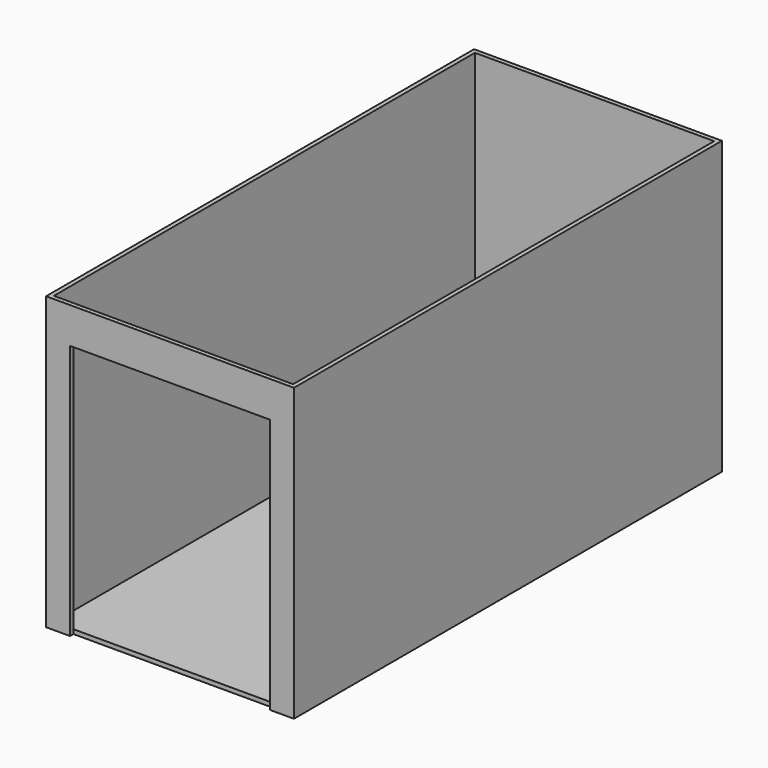
from build123d import *

# Parameters (mm, degrees)
F0_W     = 1036
F0_H     = 2236
F0_W_2   = 1000
F0_H_2   = 2200
F1_DEPTH = 1200
F2_W     = 1036
F2_H     = 2236
F3_DEPTH = 18
F4_W     = 836
F4_H     = 1068
F5_DEPTH = 18


with BuildPart() as f1:
    # F0 (on Top) → F1 (new body)
    with BuildSketch(Plane.XY):
        with Locations((518, 1118)):
            Rectangle(F0_W, F0_H)
        with Locations((518, 1118)):
            Rectangle(F0_W_2, F0_H_2, mode=Mode.SUBTRACT)
    extrude(amount=F1_DEPTH)

    # F2 (on face) → F3 (join)
    with BuildSketch(Plane(origin=(0, 0, 0), x_dir=(1, 0, 0), z_dir=(0, 0, -1))):
        with Locations((518, -1118)):
            Rectangle(F2_W, F2_H)
    extrude(amount=F3_DEPTH)

    # F4 (on face) → F5 (cut)
    with BuildSketch(Plane.XZ):
        with Locations((518, 516)):
            Rectangle(F4_W, F4_H)
    extrude(amount=-F5_DEPTH, mode=Mode.SUBTRACT)


solid = f1.part
